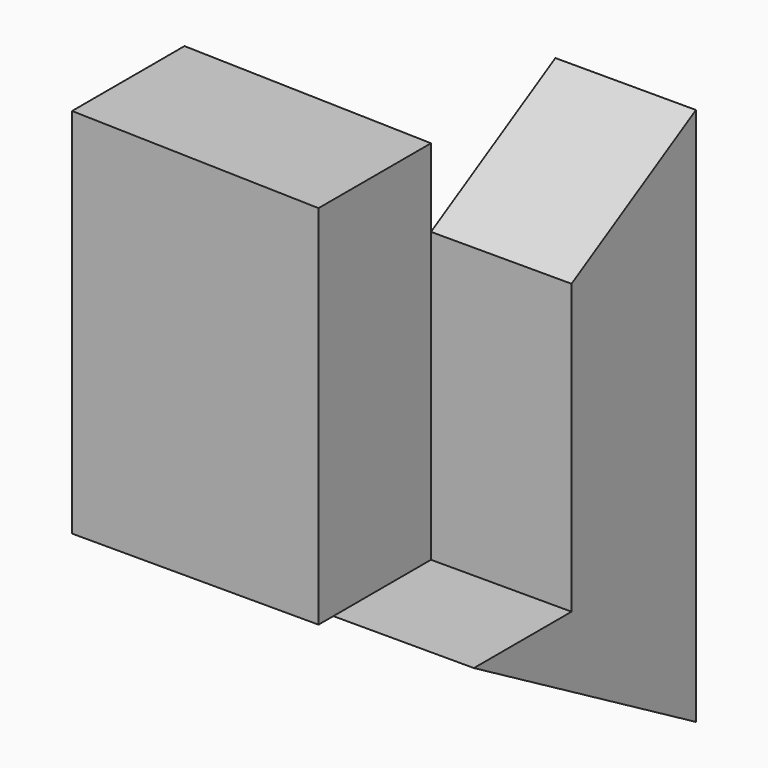
from build123d import *

# Parameters (mm, degrees)
F2_DEPTH = 25.4
F4_DEPTH = 25.4


with BuildPart() as f2:
    # F0 (on Front) → F2 (new body)
    with BuildSketch(Plane.XZ):
        Polygon((-6.6675017588, 46.5510812542), (-51.2120760977, 47.5236698985), (-51.2120760977, -19.7187773883), (-6.6675017588, -19.7187773883), align=None)
    extrude(amount=F2_DEPTH)


with BuildPart() as f2b:
    # F1 (on face) → F2, piece 2 (new body)
    with BuildSketch(Plane.XZ):
        Polygon((-6.6675017588, -19.7187773883), (-6.6675017588, 46.5510812542), (-51.2120760977, 47.5236698985), (-51.2120760977, -19.7187773883), align=None)
    extrude(amount=F2_DEPTH)


with BuildPart() as f4:
    # F3 (on face) → F4 (new body)
    with BuildSketch(Plane.YZ.offset(-6.6675017588)):
        Polygon((28.1061456905, -48.6812723409), (28.1061456905, 48.6812723409), (0, 32.4541815606), (0, -19.7187773883), (-22.0583670813, -19.7187773883), align=None)
    extrude(amount=F4_DEPTH)


solid = Compound([f2.part, f2b.part, f4.part])
